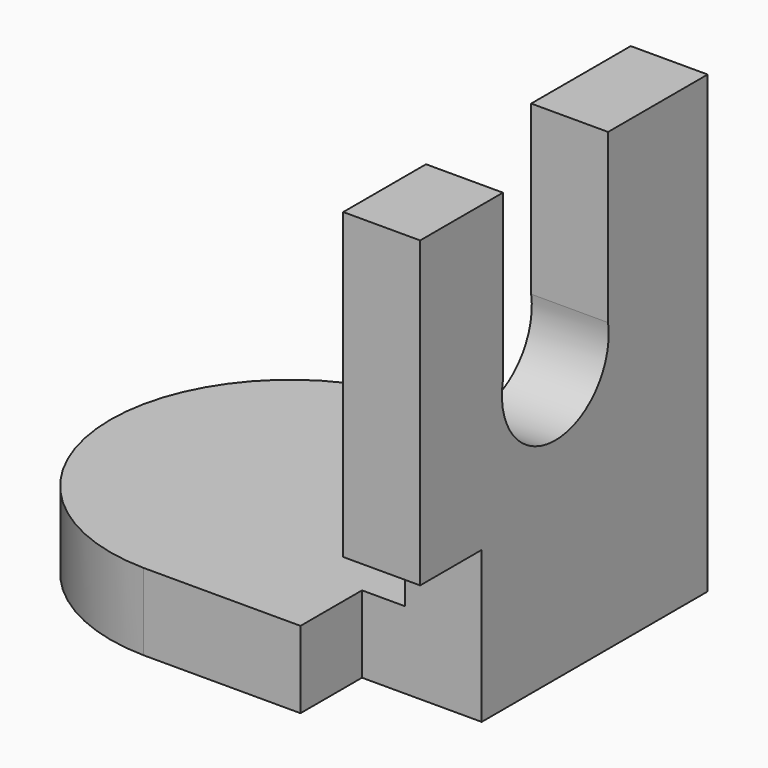
from build123d import *

# Parameters (mm, degrees)
F0_W     = 33.0062359571
F0_H     = 59.3436355703
F1_DEPTH = 12.7
F2_W     = 59.3436355703
F2_H     = 75.1609131694
F3_DEPTH = 12.7
F5_DEPTH = 12.701
F6_W     = 12.7
F6_H     = 12.3074490905
F7_DEPTH = 12.7


with BuildPart() as f1:
    # F0 (on Top) → F1 (new body)
    with BuildSketch(Plane.XY):
        with BuildLine():
            Line((0, -66.963635385), (0, -7.6199998148))
            ThreePointArc((0, -7.6199998148), (-29.1663880378, -37.2918175999), (0, -66.963635385))
        make_face()
        with Locations((16.5031179786, -37.2918175999)):
            Rectangle(F0_W, F0_H)
    extrude(amount=F1_DEPTH)

    # F2 (on face) → F3 (join)
    with BuildSketch(Plane.YZ.offset(33.0062359571)):
        with Locations((-37.2918175999, 37.5804565847)):
            Rectangle(F2_W, F2_H)
    extrude(amount=F3_DEPTH)

    # F4 (on face) → F5 (cut, through all)
    with BuildSketch(Plane(origin=(33.0062359571, 0, 0), x_dir=(0, -1, 0), z_dir=(-1, 0, 0))):
        with BuildLine():
            Line((28.1709097326, 75.1609131694), (28.1709097326, 47.4518202245))
            ThreePointArc((28.1709097326, 47.4518202245), (39.2987808247, 34.7509651719), (49.8763658106, 47.9136370122))
            Line((49.8763658106, 47.9136370122), (49.8763658106, 75.1609131694))
            Line((49.8763658106, 75.1609131694), (28.1709097326, 75.1609131694))
        make_face()
    extrude(amount=-F5_DEPTH, mode=Mode.SUBTRACT)

    # F6 (on face) → F7 (cut)
    with BuildSketch(Plane.XZ.offset(66.963635385)):
        Polygon((33.0062359571, 12.7), (25.9446389973, 12.7), (25.9446389973, 0), (45.7062359571, 0), (45.7062359571, 12.7), align=None)
        with Locations((39.3562359571, 18.8537245452)):
            Rectangle(F6_W, F6_H)
    extrude(amount=-F7_DEPTH, mode=Mode.SUBTRACT)


solid = f1.part
